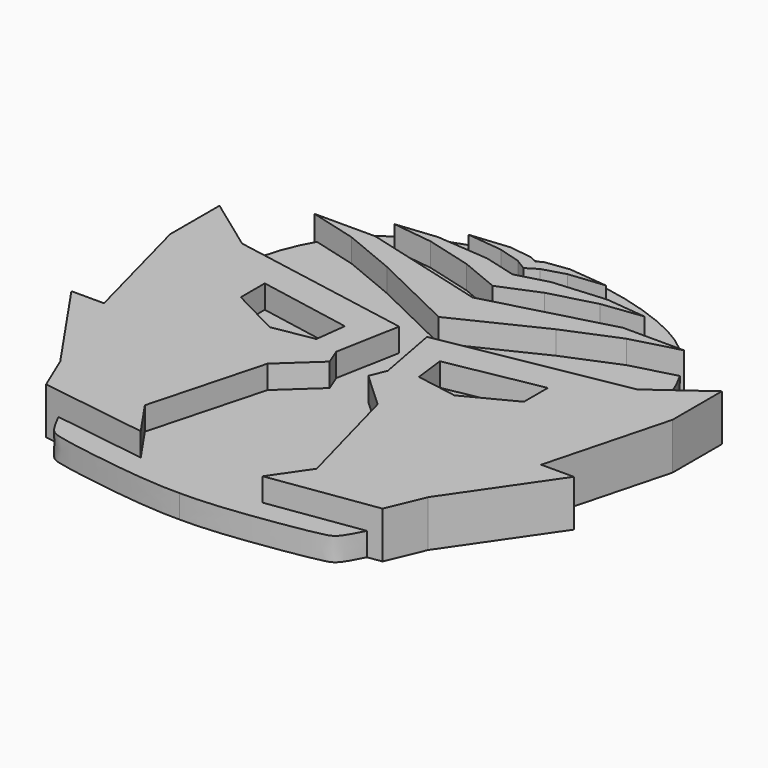
from build123d import *

# Parameters (mm, degrees)
F1_DEPTH = 6.35
F3_DEPTH = 3.175


with BuildPart() as f1:
    # F0 (on Top) → F1 (new body)
    with BuildSketch(Plane.XY):
        Polygon((-3.522234736, -2.0279295277), (-1.8970279489, 6.6890879534), (-26.9399862736, 11.1953420565), (-34.2732643226, 16.5142007172), (-34.2732643226, 8.0926753581), (-29.8210345209, -8.7503753603), (-34.2732643226, -8.7503753603), (-25.093158707, -22.1213940531), (-22.9508411139, -27.2186324), (-8.3239814267, -29.3609499931), (-11.7221409455, -24.4114585221), (-7.5113782659, -8.7503753603), (-2.6357583702, -4.2441203259), align=None)
        Polygon((-19.3118882292, 5.5360982841), (-6.477156654, 3.1431820244), (-6.9942683913, -1.0675807716), (-12.6086184755, -2.0279295277), (-19.3118882292, 1.4441022649), align=None, mode=Mode.SUBTRACT)
    extrude(amount=F1_DEPTH)


with BuildPart() as f1b:
    # F0 (on Top) → F1, piece 2 (new body)
    with BuildSketch(Plane.XY):
        Polygon((34.2732643226, 16.5142007172), (26.9399862736, 11.1953420565), (1.8970279489, 6.6890879534), (3.522234736, -2.0279295277), (2.6357583702, -4.2441203259), (7.5113782659, -8.7503753603), (11.7221409455, -24.4114585221), (8.3239814267, -29.3609499931), (22.9508411139, -27.2186324), (25.093158707, -22.1213940531), (34.2732643226, -8.7503753603), (29.8210345209, -8.7503753603), (34.2732643226, 8.0926753581), align=None)
        Polygon((19.3118882292, 1.4441022649), (12.6086184755, -2.0279295277), (6.9942683913, -1.0675807716), (6.477156654, 3.1431820244), (19.3118882292, 5.5360982841), align=None, mode=Mode.SUBTRACT)
    extrude(amount=F1_DEPTH)


with BuildPart() as f1c:
    # F0 (on Top) → F1, piece 3 (new body)
    with BuildSketch(Plane.XY):
        Polygon((-11.5542393178, 16.6480429471), (0, 11.057282798), (11.5542393178, 16.6480429471), (18.7601093203, 19.6297820657), (25.2205431461, 21.369131282), (16.8965216726, 21.369131282), (4.9202125492, 18.1447373096), (0, 16.8200634453), (-4.9202125492, 18.1447373096), (-16.8965216726, 21.369131282), (-25.2205431461, 21.369131282), (-18.7601093203, 19.6297820657), align=None)
    extrude(amount=F1_DEPTH)


with BuildPart() as f1d:
    # F0 (on Top) → F1, piece 4 (new body)
    with BuildSketch(Plane.XY):
        Polygon((-5.3330747326, 22.4577673502), (0, 20.2509779483), (5.3330747326, 22.4577673502), (11.5542393178, 24.1326978637), (17.040528357, 24.8280595988), (11.5542393178, 25.4026576877), (4.3993871659, 24.8280595988), (0, 23.6436080859), (-4.3993871659, 24.8280595988), (-11.5542393178, 25.4026576877), (-17.040528357, 24.8280595988), (-11.5542393178, 24.1326978637), align=None)
    extrude(amount=F1_DEPTH)


with BuildPart() as f1e:
    # F0 (on Top) → F1, piece 5 (new body)
    with BuildSketch(Plane.XY):
        Polygon((-1.5264012618, 26.4473799616), (0, 25.5071315914), (1.5264012618, 26.4473799616), (4.5560966246, 27.3353941739), (9.3618193641, 27.8577562422), (4.0859705769, 28.3801164478), (0.9518035222, 27.9622282833), (0, 27.4921040982), (-0.9518035222, 27.9622282833), (-4.0859705769, 28.3801164478), (-9.3618193641, 27.8577562422), (-4.5560966246, 27.3353941739), align=None)
    extrude(amount=F1_DEPTH)


with BuildPart() as f3:
    # F2 (on Top) → F3 (new body)
    with BuildSketch(Plane.XY):
        with BuildLine():
            add(Edge.make_bspline(
                [(0, 32.5506515801), (2.1364824014, 32.4878069703), (7.0390839198, 32.3435969926), (18.498406058, 28.7791112394), (24.4657037699, 22.6439368565), (28.4196655748, 13.7005197025), (29.4046891287, -4.9808047902), (25.9430889839, -16.8777760298), (20.0629749198, -30.193549678), (17.9794793815, -31.2365790961), (5.0828872629, -33.1567064188), (1.4388255417, -33.1675641205), (0, -33.1718511879)],
                knots=[0, 0, 0, 0, 0.0852458275, 0.1956142129, 0.2878318293, 0.3873949002, 0.5243981868, 0.6448728665, 0.7617030814, 0.8110863035, 0.9254090977, 1, 1, 1, 1], degree=3))
            add(Edge.make_bspline(
                [(0, 32.5506515801), (-2.1364824014, 32.4878069703), (-7.0390839198, 32.3435969926), (-18.498406058, 28.7791112394), (-24.4657037699, 22.6439368565), (-28.4196655748, 13.7005197025), (-29.4046891287, -4.9808047902), (-25.9430889839, -16.8777760298), (-20.0629749198, -30.193549678), (-17.9794793815, -31.2365790961), (-5.0828872629, -33.1567064188), (-1.4388255417, -33.1675641205), (0, -33.1718511879)],
                knots=[0, 0, 0, 0, 0.0852458275, 0.1956142129, 0.2878318293, 0.3873949002, 0.5243981868, 0.6448728665, 0.7617030814, 0.8110863035, 0.9254090977, 1, 1, 1, 1], degree=3))
        make_face()
    extrude(amount=F3_DEPTH)


solid = Compound([f1.part, f1b.part, f1c.part, f1d.part, f1e.part, f3.part])
